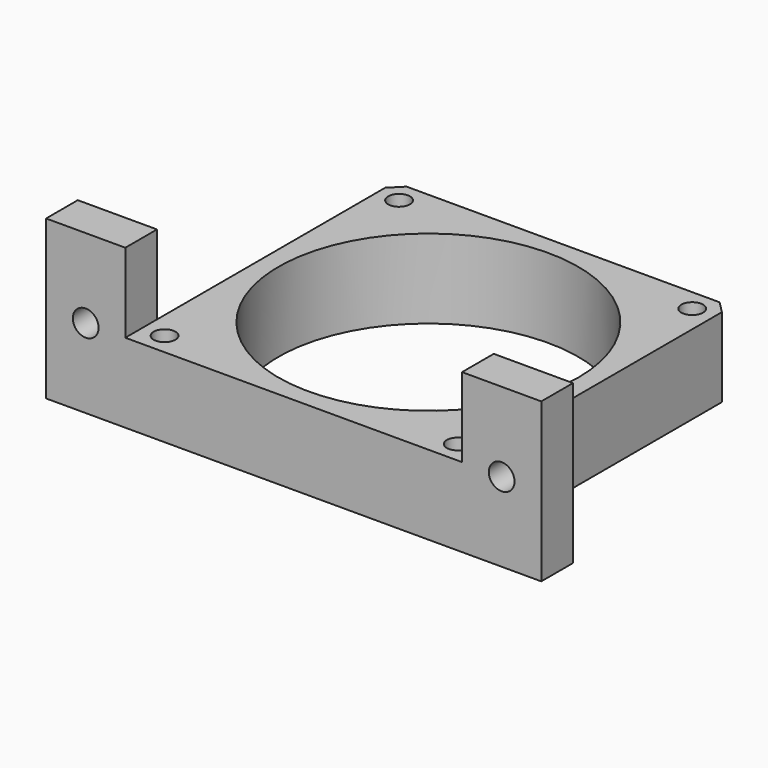
from build123d import *

# Parameters (mm, degrees)
F0_W     = 85
F0_H     = 85
F0_R     = 2.75
F0_R_2   = 37.85
F1_DEPTH = 20
F2_W     = 20
F2_H     = 10
F3_DEPTH = 40
F4_R     = 3.25
F5_DEPTH = 10.001
F6_SIZE  = 3


with BuildPart() as f1:
    # F0 (on Top) → F1 (new body)
    with BuildSketch(Plane.XY):
        Rectangle(F0_W, F0_H)
        with Locations((-37, -37)):
            Circle(F0_R, mode=Mode.SUBTRACT)
        with Locations((37, -37)):
            Circle(F0_R, mode=Mode.SUBTRACT)
        with Locations((-37, 37)):
            Circle(F0_R, mode=Mode.SUBTRACT)
        Circle(F0_R_2, mode=Mode.SUBTRACT)
        with Locations((37, 37)):
            Circle(F0_R, mode=Mode.SUBTRACT)
    extrude(amount=F1_DEPTH)

    # F2 (on Top) → F3 (join)
    with BuildSketch(Plane.XY):
        with Locations((-52.5, -37.5)):
            Rectangle(F2_W, F2_H)
        with Locations((52.5, -37.5)):
            Rectangle(F2_W, F2_H)
    extrude(amount=F3_DEPTH)

    # F4 (on face) → F5 (cut, through all)
    with BuildSketch(Plane(origin=(0, -32.5, 0), x_dir=(-1, 0, 0), z_dir=(0, 1, 0))):
        with Locations((-52.5, 20)):
            Circle(F4_R)
        with Locations((52.5, 20)):
            Circle(F4_R)
    extrude(amount=-F5_DEPTH, mode=Mode.SUBTRACT)

    # F6
    f6_edges = [f1.edges().sort_by_distance(p)[0] for p in [
        (-42.5, 42.5, 10),
        (42.5, 42.5, 10),
    ]]
    chamfer(f6_edges, length=F6_SIZE)


solid = f1.part
